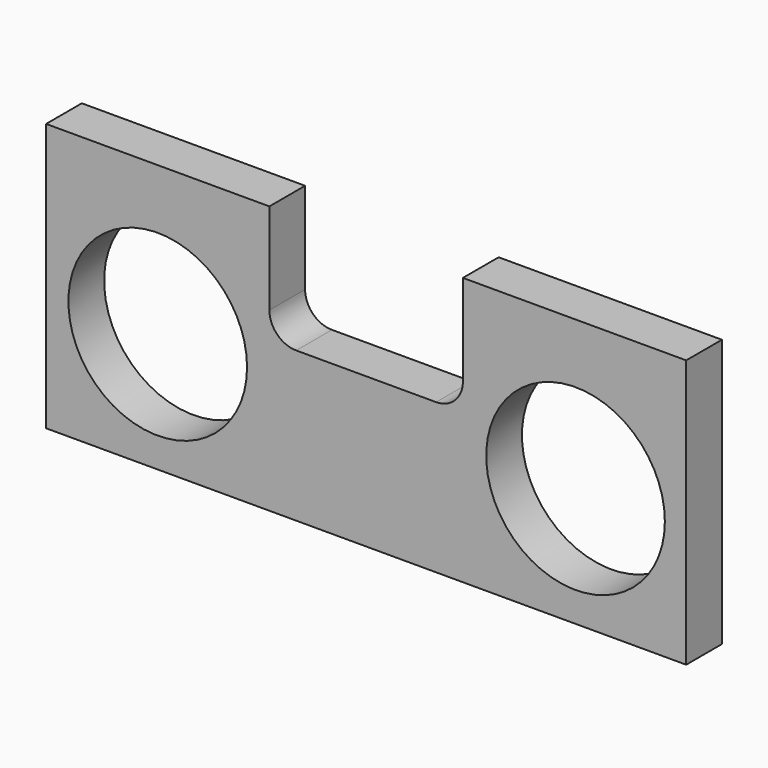
from build123d import *

# Parameters (mm, degrees)
F0_W     = 273.05
F0_H     = 114.3
F1_DEPTH = 19.05
F2_R     = 38.1
F3_DEPTH = 25.4


with BuildPart() as f1:
    # F0 (on Front) → F1 (new body)
    with BuildSketch(Plane.XZ):
        with Locations((136.525, 57.15)):
            Rectangle(F0_W, F0_H)
    extrude(amount=F1_DEPTH)

    # F2 (on face) → F3 (cut)
    with BuildSketch(Plane.XZ.offset(19.05)):
        with Locations((225.850232, 50.8)):
            Circle(F2_R)
        with BuildLine():
            Line((177.8, 114.3), (95.25, 114.3))
            Line((95.25, 114.3), (95.25, 75.351161))
            ThreePointArc((95.25, 75.351161), (98.597769, 67.26893), (106.68, 63.921161))
            Line((106.68, 63.921161), (166.37, 63.921161))
            ThreePointArc((166.37, 63.921161), (174.452231, 67.26893), (177.8, 75.351161))
            Line((177.8, 75.351161), (177.8, 114.3))
        make_face()
        with Locations((47.625, 50.8)):
            Circle(F2_R)
    extrude(amount=-F3_DEPTH, mode=Mode.SUBTRACT)


solid = f1.part
